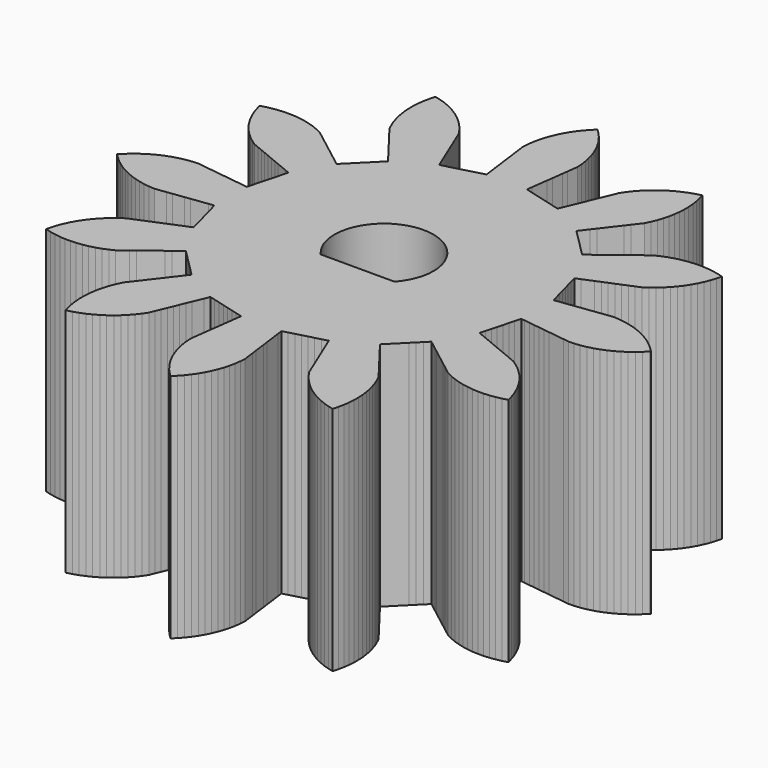
from build123d import *

# Parameters (mm, degrees)
F1_DEPTH = 7


with BuildPart() as f1:
    # F0 (on Top) → F1 (new body)
    with BuildSketch(Plane.XY):
        Polygon((3.627402, -0.631515), (3.632595, -0.612135), (3.742526, -0.626607), (3.907423, -0.648316), (4.072319, -0.670025), (4.237216, -0.691734), (4.402113, -0.713444), (4.567009, -0.735153), (4.731906, -0.756862), (4.896803, -0.778571), (5.0617, -0.80028), (5.226596, -0.821989), (5.398621, -0.820686), (5.569404, -0.800019), (5.7495, -0.767925), (5.915648, -0.723331), (6.072879, -0.671913), (6.231716, -0.605845), (6.380815, -0.534186), (6.529577, -0.447793), (6.667951, -0.357139), (6.804053, -0.251923), (6.929295, -0.143851), (7.05037, -0.021641), (7.07181, 0), (6.950736, 0.122209), (6.828155, 0.233291), (6.692053, 0.338507), (6.555921, 0.432494), (6.407158, 0.518887), (6.259844, 0.594145), (6.101007, 0.660213), (5.945071, 0.715434), (5.778922, 0.760028), (5.617076, 0.79425), (5.446504, 0.816596), (5.281562, 0.829225), (5.116665, 0.807516), (4.951768, 0.785807), (4.786872, 0.764098), (4.621975, 0.742389), (4.457078, 0.72068), (4.292182, 0.698971), (4.127285, 0.677262), (3.962388, 0.655553), (3.797491, 0.633844), (3.632595, 0.612135), (3.58807, 0.778302), (3.543546, 0.94447), (3.499021, 1.110637), (3.454497, 1.276805), (3.409972, 1.442972), (3.365448, 1.60914), (3.320923, 1.775308), (3.31573, 1.794688), (3.46939, 1.858335), (3.623049, 1.921983), (3.776708, 1.985631), (3.930368, 2.049279), (4.084027, 2.112927), (4.237686, 2.176574), (4.391345, 2.240222), (4.545005, 2.30387), (4.698664, 2.367518), (4.852323, 2.431165), (4.994201, 2.528453), (5.1254, 2.629211), (5.253243, 2.744321), (5.370043, 2.861466), (5.481629, 2.992396), (5.582, 3.123892), (5.675388, 3.268366), (5.757585, 3.411924), (5.831152, 3.56743), (5.893745, 3.720556), (5.946211, 3.884389), (5.988111, 4.04442), (5.822153, 4.089719), (5.660454, 4.124628), (5.489978, 4.147696), (5.325091, 4.161026), (5.190093, 4.163151), (5.018281, 4.154511), (4.853751, 4.137325), (4.684569, 4.106154), (4.523731, 4.067468), (4.360122, 4.014307), (4.205773, 3.954796), (4.05058, 3.88057), (3.910807, 3.780282), (3.773901, 3.676115), (3.627247, 3.563679), (3.495297, 3.46243), (3.363347, 3.361181), (3.231397, 3.259932), (3.099447, 3.158683), (2.967496, 3.057434), (2.835546, 2.956185), (2.703596, 2.854936), (2.581953, 2.976579), (2.46031, 3.098222), (2.338667, 3.219865), (2.217024, 3.341508), (2.09538, 3.463151), (1.973737, 3.584795), (1.852094, 3.706438), (1.837907, 3.720625), (1.939156, 3.852575), (2.040405, 3.984525), (2.141654, 4.116476), (2.242903, 4.248426), (2.344152, 4.380376), (2.445401, 4.512326), (2.54665, 4.644276), (2.647899, 4.776227), (2.749148, 4.908177), (2.850397, 5.040127), (2.924622, 5.195319), (2.987865, 5.348178), (3.041025, 5.511788), (3.083605, 5.671639), (3.114776, 5.84082), (3.135952, 6.004884), (3.144592, 6.176696), (3.143997, 6.34212), (3.129954, 6.513575), (3.107599, 6.677483), (3.071119, 6.8456), (3.027391, 7.00514), (2.861017, 6.961391), (2.703527, 6.910774), (2.544356, 6.845514), (2.394895, 6.774614), (2.245695, 6.688978), (2.106863, 6.599029), (1.970228, 6.494507), (1.844437, 6.387072), (1.722743, 6.26548), (1.612182, 6.142429), (1.507545, 6.005882), (1.414136, 5.869352), (1.350489, 5.715693), (1.286841, 5.562034), (1.223193, 5.408374), (1.159545, 5.254715), (1.095898, 5.101056), (1.03225, 4.947397), (0.968602, 4.793737), (0.904954, 4.640078), (0.841306, 4.486419), (0.777659, 4.332759), (0.611491, 4.377284), (0.445324, 4.421808), (0.279156, 4.466333), (0.112988, 4.510857), (-0.053179, 4.555382), (-0.219347, 4.599906), (-0.385514, 4.644431), (-0.404894, 4.649624), (-0.383185, 4.81452), (-0.361476, 4.979417), (-0.339767, 5.144314), (-0.318058, 5.309211), (-0.296349, 5.474107), (-0.27464, 5.639004), (-0.252931, 5.803901), (-0.231222, 5.968797), (-0.209513, 6.133694), (-0.187804, 6.298591), (-0.201118, 6.470104), (-0.222779, 6.634105), (-0.258545, 6.802375), (-0.301595, 6.9621), (-0.359191, 7.124201), (-0.422884, 7.276873), (-0.501308, 7.429986), (-0.584535, 7.57295), (-0.682424, 7.714414), (-0.783738, 7.845184), (-0.899389, 7.972537), (-1.017029, 8.088839), (-1.139238, 7.967765), (-1.25032, 7.845184), (-1.355536, 7.709082), (-1.449523, 7.57295), (-1.535916, 7.424187), (-1.611174, 7.276873), (-1.677242, 7.118036), (-1.732463, 6.9621), (-1.777057, 6.795951), (-1.811279, 6.634105), (-1.833625, 6.463533), (-1.846254, 6.298591), (-1.824545, 6.133694), (-1.802836, 5.968797), (-1.781127, 5.803901), (-1.759418, 5.639004), (-1.737709, 5.474107), (-1.716, 5.309211), (-1.694291, 5.144314), (-1.672582, 4.979417), (-1.650873, 4.81452), (-1.629164, 4.649624), (-1.795331, 4.605099), (-1.961499, 4.560575), (-2.127666, 4.51605), (-2.293834, 4.471526), (-2.460001, 4.427001), (-2.626169, 4.382477), (-2.792337, 4.337952), (-2.811717, 4.332759), (-2.875364, 4.486419), (-2.939012, 4.640078), (-3.00266, 4.793737), (-3.066308, 4.947397), (-3.129956, 5.101056), (-3.193603, 5.254715), (-3.257251, 5.408374), (-3.320899, 5.562034), (-3.384547, 5.715693), (-3.448194, 5.869352), (-3.545482, 6.01123), (-3.64624, 6.142429), (-3.76135, 6.270272), (-3.878495, 6.387072), (-4.009425, 6.498658), (-4.140921, 6.599029), (-4.285395, 6.692417), (-4.428953, 6.774614), (-4.584459, 6.848181), (-4.737585, 6.910774), (-4.901418, 6.96324), (-5.061449, 7.00514), (-5.106748, 6.839182), (-5.141657, 6.677483), (-5.164725, 6.507007), (-5.178055, 6.34212), (-5.178492, 6.170091), (-5.17001, 6.004884), (-5.147808, 5.834294), (-5.117663, 5.671639), (-5.073208, 5.505452), (-5.021923, 5.348178), (-4.955988, 5.189286), (-4.884455, 5.040127), (-4.783206, 4.908177), (-4.681957, 4.776227), (-4.580708, 4.644276), (-4.479459, 4.512326), (-4.37821, 4.380376), (-4.276961, 4.248426), (-4.175712, 4.116476), (-4.074463, 3.984525), (-3.973214, 3.852575), (-3.871965, 3.720625), (-3.993608, 3.598982), (-4.115251, 3.477339), (-4.236894, 3.355696), (-4.358537, 3.234053), (-4.48018, 3.112409), (-4.601824, 2.990766), (-4.723467, 2.869123), (-4.737654, 2.854936), (-4.869604, 2.956185), (-5.001554, 3.057434), (-5.133505, 3.158683), (-5.265455, 3.259932), (-5.397405, 3.361181), (-5.529355, 3.46243), (-5.661305, 3.563679), (-5.793256, 3.664928), (-5.925206, 3.766177), (-6.057156, 3.867426), (-6.212348, 3.941651), (-6.365207, 4.004894), (-6.528817, 4.058054), (-6.688668, 4.100634), (-6.857849, 4.131805), (-7.021913, 4.152981), (-7.193725, 4.161621), (-7.224151, 4.163151), (-7.396108, 4.158174), (-7.560967, 4.144497), (-7.730774, 4.116937), (-7.8924, 4.081688), (-8.022169, 4.04442), (-7.97842, 3.878046), (-7.927803, 3.720556), (-7.862543, 3.561385), (-7.791643, 3.411924), (-7.706007, 3.262724), (-7.616058, 3.123892), (-7.511536, 2.987257), (-7.404101, 2.861466), (-7.282509, 2.739772), (-7.159458, 2.629211), (-7.022911, 2.524574), (-6.886381, 2.431165), (-6.732722, 2.367518), (-6.579063, 2.30387), (-6.425403, 2.240222), (-6.271744, 2.176574), (-6.118085, 2.112927), (-5.964426, 2.049279), (-5.810766, 1.985631), (-5.657107, 1.921983), (-5.503448, 1.858335), (-5.349788, 1.794688), (-5.394313, 1.62852), (-5.438837, 1.462353), (-5.483362, 1.296185), (-5.527886, 1.130017), (-5.572411, 0.96385), (-5.616935, 0.797682), (-5.66146, 0.631515), (-5.666653, 0.612135), (-5.831549, 0.633844), (-5.996446, 0.655553), (-6.161343, 0.677262), (-6.32624, 0.698971), (-6.491136, 0.72068), (-6.656033, 0.742389), (-6.82093, 0.764098), (-6.985826, 0.785807), (-7.150723, 0.807516), (-7.31562, 0.829225), (-7.487133, 0.815911), (-7.651134, 0.79425), (-7.819404, 0.758484), (-7.979129, 0.715434), (-8.14123, 0.657838), (-8.293902, 0.594145), (-8.447015, 0.515721), (-8.589979, 0.432494), (-8.731443, 0.334605), (-8.862213, 0.233291), (-8.989566, 0.11764), (-9.105868, 0), (-8.984794, -0.122209), (-8.862213, -0.233291), (-8.726111, -0.338507), (-8.589979, -0.432494), (-8.441216, -0.518887), (-8.293902, -0.594145), (-8.135065, -0.660213), (-7.979129, -0.715434), (-7.81298, -0.760028), (-7.651134, -0.79425), (-7.480562, -0.816596), (-7.31562, -0.829225), (-7.150723, -0.807516), (-6.985826, -0.785807), (-6.82093, -0.764098), (-6.656033, -0.742389), (-6.491136, -0.72068), (-6.32624, -0.698971), (-6.161343, -0.677262), (-5.996446, -0.655553), (-5.831549, -0.633844), (-5.666653, -0.612135), (-5.622128, -0.778302), (-5.577604, -0.94447), (-5.533079, -1.110637), (-5.488555, -1.276805), (-5.44403, -1.442972), (-5.399506, -1.60914), (-5.354981, -1.775308), (-5.349788, -1.794688), (-5.503448, -1.858335), (-5.657107, -1.921983), (-5.810766, -1.985631), (-5.964426, -2.049279), (-6.118085, -2.112927), (-6.271744, -2.176574), (-6.425403, -2.240222), (-6.579063, -2.30387), (-6.732722, -2.367518), (-6.886381, -2.431165), (-7.028259, -2.528453), (-7.159458, -2.629211), (-7.287301, -2.744321), (-7.404101, -2.861466), (-7.515687, -2.992396), (-7.616058, -3.123892), (-7.709446, -3.268366), (-7.791643, -3.411924), (-7.86521, -3.56743), (-7.927803, -3.720556), (-7.980269, -3.884389), (-8.022169, -4.04442), (-7.856211, -4.089719), (-7.694512, -4.124628), (-7.524036, -4.147696), (-7.359149, -4.161026), (-7.18712, -4.161463), (-7.021913, -4.152981), (-6.851323, -4.130779), (-6.688668, -4.100634), (-6.522481, -4.056179), (-6.365207, -4.004894), (-6.206315, -3.938959), (-6.057156, -3.867426), (-5.925206, -3.766177), (-5.793256, -3.664928), (-5.661305, -3.563679), (-5.529355, -3.46243), (-5.397405, -3.361181), (-5.265455, -3.259932), (-5.133505, -3.158683), (-5.001554, -3.057434), (-4.869604, -2.956185), (-4.737654, -2.854936), (-4.616011, -2.976579), (-4.494368, -3.098222), (-4.372725, -3.219865), (-4.251082, -3.341508), (-4.129438, -3.463151), (-4.007795, -3.584795), (-3.886152, -3.706438), (-3.871965, -3.720625), (-3.973214, -3.852575), (-4.074463, -3.984525), (-4.175712, -4.116476), (-4.276961, -4.248426), (-4.37821, -4.380376), (-4.479459, -4.512326), (-4.580708, -4.644276), (-4.681957, -4.776227), (-4.783206, -4.908177), (-4.884455, -5.040127), (-4.95868, -5.195319), (-5.021923, -5.348178), (-5.075083, -5.511788), (-5.117663, -5.671639), (-5.148834, -5.84082), (-5.17001, -6.004884), (-5.17865, -6.176696), (-5.178055, -6.34212), (-5.164012, -6.513575), (-5.141657, -6.677483), (-5.105177, -6.8456), (-5.061449, -7.00514), (-4.895075, -6.961391), (-4.737585, -6.910774), (-4.578414, -6.845514), (-4.428953, -6.774614), (-4.279753, -6.688978), (-4.140921, -6.599029), (-4.004286, -6.494507), (-3.878495, -6.387072), (-3.756801, -6.26548), (-3.64624, -6.142429), (-3.541603, -6.005882), (-3.448194, -5.869352), (-3.384547, -5.715693), (-3.320899, -5.562034), (-3.257251, -5.408374), (-3.193603, -5.254715), (-3.129956, -5.101056), (-3.066308, -4.947397), (-3.00266, -4.793737), (-2.939012, -4.640078), (-2.875364, -4.486419), (-2.811717, -4.332759), (-2.645549, -4.377284), (-2.479382, -4.421808), (-2.313214, -4.466333), (-2.147046, -4.510857), (-1.980879, -4.555382), (-1.814711, -4.599906), (-1.648544, -4.644431), (-1.629164, -4.649624), (-1.650873, -4.81452), (-1.672582, -4.979417), (-1.694291, -5.144314), (-1.716, -5.309211), (-1.737709, -5.474107), (-1.759418, -5.639004), (-1.781127, -5.803901), (-1.802836, -5.968797), (-1.824545, -6.133694), (-1.846254, -6.298591), (-1.83294, -6.470104), (-1.811279, -6.634105), (-1.775513, -6.802375), (-1.732463, -6.9621), (-1.674867, -7.124201), (-1.611174, -7.276873), (-1.53275, -7.429986), (-1.449523, -7.57295), (-1.351634, -7.714414), (-1.25032, -7.845184), (-1.134669, -7.972537), (-1.017029, -8.088839), (-0.89482, -7.967765), (-0.783738, -7.845184), (-0.678522, -7.709082), (-0.584535, -7.57295), (-0.498142, -7.424187), (-0.422884, -7.276873), (-0.356816, -7.118036), (-0.301595, -6.9621), (-0.257001, -6.795951), (-0.222779, -6.634105), (-0.200433, -6.463533), (-0.187804, -6.298591), (-0.209513, -6.133694), (-0.231222, -5.968797), (-0.252931, -5.803901), (-0.27464, -5.639004), (-0.296349, -5.474107), (-0.318058, -5.309211), (-0.339767, -5.144314), (-0.361476, -4.979417), (-0.383185, -4.81452), (-0.404894, -4.649624), (-0.238727, -4.605099), (-0.072559, -4.560575), (0.093608, -4.51605), (0.259776, -4.471526), (0.425943, -4.427001), (0.592111, -4.382477), (0.758279, -4.337952), (0.777659, -4.332759), (0.841306, -4.486419), (0.904954, -4.640078), (0.968602, -4.793737), (1.03225, -4.947397), (1.095898, -5.101056), (1.159545, -5.254715), (1.223193, -5.408374), (1.286841, -5.562034), (1.350489, -5.715693), (1.414136, -5.869352), (1.511424, -6.01123), (1.612182, -6.142429), (1.727292, -6.270272), (1.844437, -6.387072), (1.975367, -6.498658), (2.106863, -6.599029), (2.251337, -6.692417), (2.394895, -6.774614), (2.550401, -6.848181), (2.703527, -6.910774), (2.86736, -6.96324), (3.027391, -7.00514), (3.07269, -6.839182), (3.107599, -6.677483), (3.130667, -6.507007), (3.143997, -6.34212), (3.144434, -6.170091), (3.135952, -6.004884), (3.11375, -5.834294), (3.083605, -5.671639), (3.03915, -5.505452), (2.987865, -5.348178), (2.92193, -5.189286), (2.850397, -5.040127), (2.749148, -4.908177), (2.647899, -4.776227), (2.54665, -4.644276), (2.445401, -4.512326), (2.344152, -4.380376), (2.242903, -4.248426), (2.141654, -4.116476), (2.040405, -3.984525), (1.939156, -3.852575), (1.837907, -3.720625), (1.95955, -3.598982), (2.081193, -3.477339), (2.202836, -3.355696), (2.324479, -3.234053), (2.446122, -3.112409), (2.567766, -2.990766), (2.689409, -2.869123), (2.703596, -2.854936), (2.835546, -2.956185), (2.967496, -3.057434), (3.099447, -3.158683), (3.231397, -3.259932), (3.363347, -3.361181), (3.495297, -3.46243), (3.627247, -3.563679), (3.759198, -3.664928), (3.891148, -3.766177), (4.023098, -3.867426), (4.17829, -3.941651), (4.331149, -4.004894), (4.494759, -4.058054), (4.65461, -4.100634), (4.823791, -4.131805), (4.987855, -4.152981), (5.159667, -4.161621), (5.325091, -4.161026), (5.496546, -4.146983), (5.660454, -4.124628), (5.828571, -4.088148), (5.988111, -4.04442), (5.944362, -3.878046), (5.893745, -3.720556), (5.828485, -3.561385), (5.757585, -3.411924), (5.671949, -3.262724), (5.582, -3.123892), (5.477478, -2.987257), (5.370043, -2.861466), (5.248451, -2.739772), (5.1254, -2.629211), (4.988853, -2.524574), (4.852323, -2.431165), (4.698664, -2.367518), (4.545005, -2.30387), (4.391345, -2.240222), (4.237686, -2.176574), (4.084027, -2.112927), (3.930368, -2.049279), (3.776708, -1.985631), (3.623049, -1.921983), (3.46939, -1.858335), (3.31573, -1.794688), (3.360255, -1.62852), (3.404779, -1.462353), (3.449304, -1.296185), (3.493828, -1.130017), (3.538353, -0.96385), (3.582877, -0.797682), align=None)
        with BuildLine():
            ThreePointArc((0.101005, -1), (-1.017029, -1.5), (-2.135063, -1))
            ThreePointArc((-2.135063, -1), (-1.552262, 1.401259), (0.482971, 0))
            ThreePointArc((0.482971, 0), (0.38423, -0.535233), (0.101005, -1))
        make_face(mode=Mode.SUBTRACT)
        with BuildLine():
            Line((0.101005, -1), (-2.135063, -1))
            ThreePointArc((-2.135063, -1), (-1.017029, -1.5), (0.101005, -1))
        make_face()
    extrude(amount=F1_DEPTH)


solid = f1.part
